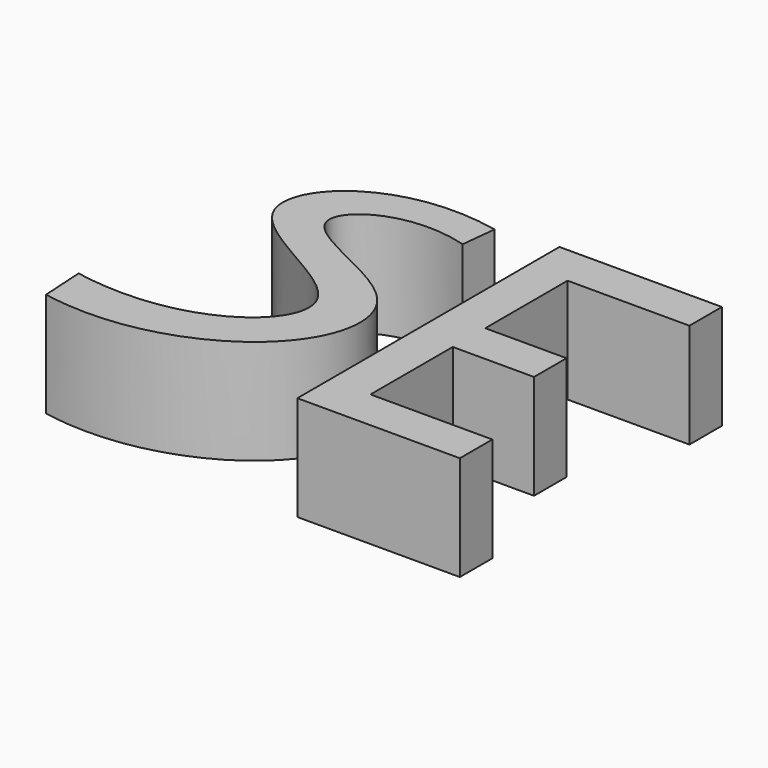
from build123d import *

# Parameters (mm, degrees)
F1_DEPTH = 16.35413
F0_W     = 19.05
F0_H     = 6.35
F0_W_2   = 12.7


with BuildPart() as f1:
    # F0 (on Top) → F1 (new body)
    with BuildSketch(Plane.XY):
        with BuildLine():
            add(Edge.make_bspline(
                [(-6.3534020252, 10.3572044333), (-16.4747535219, 13.3132160411), (-32.3829505751, 2.9687593453), (-0.9056840339, -4.2167861589), (-3.7913907379, -26.0806894741), (-24.7104848916, -34.3037134479), (-37.7413049491, -31.8056472424)],
                knots=[0, 0, 0, 0, 0.2287870999, 0.4765862506, 0.6890385487, 1, 1, 1, 1], degree=3))
            Line((-6.3534020252, 10.3572044333), (-5.7703910287, 15.8521192682))
            add(Edge.make_bspline(
                [(-5.7703910287, 15.8521192682), (-22.4912622837, 19.3581060105), (-42.3665848378, 0.5203549958), (2.3932888762, -10.5938046517), (-20.1579371378, -28.3103930206), (-38.1455219865, -24.9458096052)],
                knots=[0, 0, 0, 0, 0.3338789632, 0.6509432679, 1, 1, 1, 1], degree=3))
            Line((-38.1455219865, -24.9458096052), (-37.7413049491, -31.8056472424))
        make_face()
    extrude(amount=-F1_DEPTH)


with BuildPart() as f1b:
    # F0 (on Top) → F1, piece 2 (new body)
    with BuildSketch(Plane.XY):
        Polygon((9.6604372393, 17.1797614419), (3.3104372393, 17.1797614419), (3.3104372393, -34.0266385581), (9.6604372393, -34.0266385581), (9.6604372393, -27.6766385581), (9.6604372393, -11.5984385581), (9.6604372393, -5.2484385581), (9.6604372393, 10.8297614419), align=None)
        with Locations((19.1854372393, 14.0047614419)):
            Rectangle(F0_W, F0_H)
        with Locations((19.1854372393, -30.8516385581)):
            Rectangle(F0_W, F0_H)
        with Locations((16.0104372393, -8.4234385581)):
            Rectangle(F0_W_2, F0_H)
    extrude(amount=-F1_DEPTH)


solid = Compound([f1.part, f1b.part])
